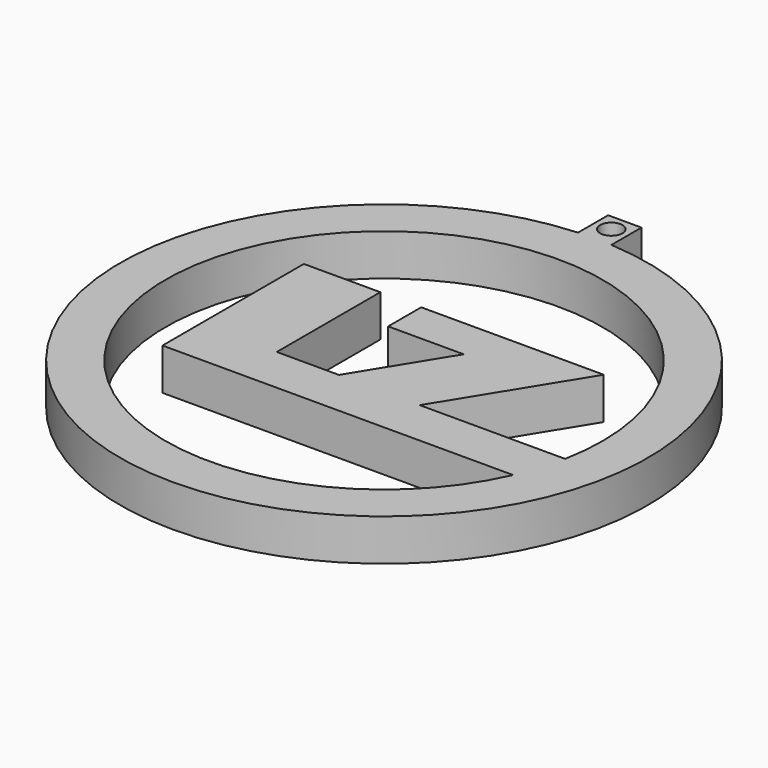
from build123d import *

# Parameters (mm, degrees)
F0_R     = 1.704134
F1_DEPTH = 6.35


with BuildPart() as f1:
    # F0 (on Top) → F1 (new body)
    with BuildSketch(Plane.XY):
        with BuildLine():
            Line((-2.54, 45.851266), (-2.54, 40.123505))
            ThreePointArc((-2.54, 40.123505), (0, -40.203822), (2.54, 40.123505))
            Line((2.54, 40.123505), (2.54, 45.851266))
            Line((2.54, 45.851266), (0, 45.851266))
            Line((0, 45.851266), (-2.54, 45.851266))
        make_face()
        with BuildLine():
            ThreePointArc((30.438812, -13.474781), (-31.757511, 9.97755), (32.675846, -6.354533))
            Line((32.675846, -6.354533), (10.521897, -6.354533))
            Line((10.521897, -6.354533), (22.718713, 13.443197))
            Line((22.718713, 13.443197), (-5.086764, 13.443197))
            Line((-5.086764, 13.443197), (-5.086764, 7.146967))
            Line((-5.086764, 7.146967), (6.41895, 7.146967))
            Line((6.41895, 7.146967), (-1.850782, -6.276367))
            Line((-1.850782, -6.276367), (-11.319026, -6.276367))
            Line((-11.319026, -6.276367), (-11.319026, 13.443197))
            Line((-11.319026, 13.443197), (-22.971755, 13.443197))
            Line((-22.971755, 13.443197), (-22.971755, -13.474781))
            Line((-22.971755, -13.474781), (30.438812, -13.474781))
        make_face(mode=Mode.SUBTRACT)
        with Locations((0, 43.290003)):
            Circle(F0_R, mode=Mode.SUBTRACT)
    extrude(amount=F1_DEPTH)


solid = f1.part
